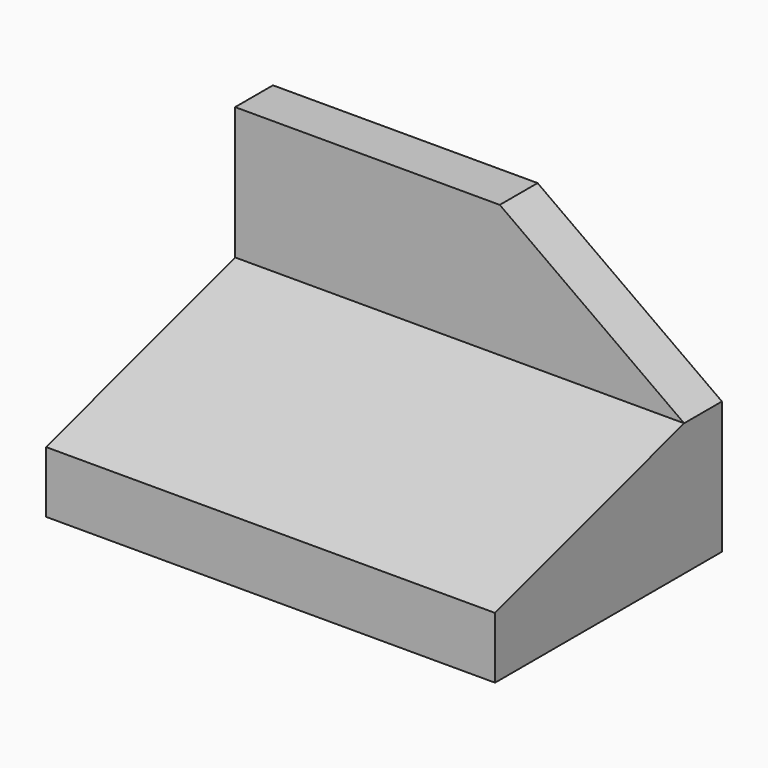
from build123d import *

# Parameters (mm, degrees)
F1_DEPTH = 95
F3_DEPTH = 25


with BuildPart() as f1:
    # F0 (on Right) → F1 (new body)
    with BuildSketch(Plane.YZ):
        Polygon((-60, 0), (0, 0), (0, 56), (-10, 56), (-10, 28), (-60, 13), align=None)
    extrude(amount=F1_DEPTH)

    # F2 (on face) → F3 (cut)
    with BuildSketch(Plane.XZ.offset(10)):
        Polygon((95, 56), (56, 56), (95, 28), align=None)
    extrude(amount=-F3_DEPTH, mode=Mode.SUBTRACT)


solid = f1.part
